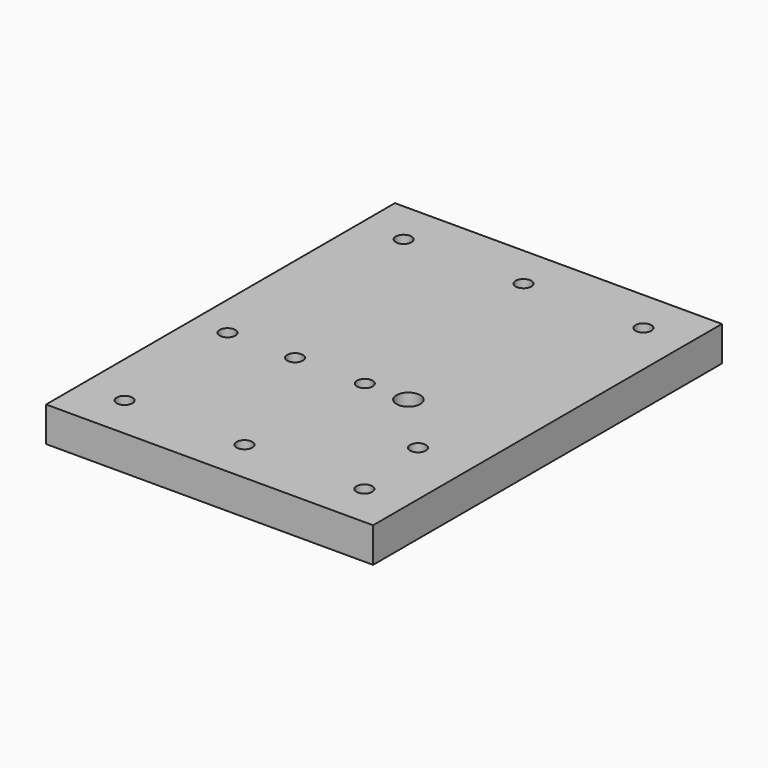
from build123d import *

# Parameters (mm, degrees)
BOX_W         = 75
BOX_H         = 100
BOX_DEPTH     = 8
SKETCH_R      = 1.8
HOLE_DEPTH    = 8.001
SKETCH001_R   = 1.8
HOLE001_DEPTH = 25
SKETCH003_R   = 2.75
HOLE002_DEPTH = 8.001


with BuildPart() as part:
    # Box → Box (join)
    with BuildSketch(Plane.XY):
        with Locations((37.5, 50)):
            Rectangle(BOX_W, BOX_H)
    extrude(amount=BOX_DEPTH)

    # Sketch (on Face5 of Box) → Hole (cut, through all)
    with BuildSketch(Plane(origin=(0, 0, 0), x_dir=(1, 0, 0), z_dir=(0, 0, -1))):
        with Locations((10, -10)):
            Circle(SKETCH_R)
        with Locations((37.5, -10)):
            Circle(SKETCH_R)
        with Locations((65, -10)):
            Circle(SKETCH_R)
        with Locations((10, -90)):
            Circle(SKETCH_R)
        with Locations((37.5, -90)):
            Circle(SKETCH_R)
        with Locations((65, -90)):
            Circle(SKETCH_R)
    extrude(amount=-HOLE_DEPTH, mode=Mode.SUBTRACT)

    # Sketch001 (on Face5 of Hole) → Hole001 (cut)
    with BuildSketch(Plane(origin=(0, 0, 0), x_dir=(1, 0, 0), z_dir=(0, 0, -1))):
        with Locations((39.5, -42)):
            Circle(SKETCH001_R)
        with Locations((23.5, -42)):
            Circle(SKETCH001_R)
        with Locations((8, -42)):
            Circle(SKETCH001_R)
        with Locations((62.5, -28.5)):
            Circle(SKETCH001_R)
    extrude(amount=-HOLE001_DEPTH, mode=Mode.SUBTRACT)

    # Sketch003 (on Face5 of Hole001) → Hole002 (cut, through all)
    with BuildSketch(Plane(origin=(0, 0, 0), x_dir=(1, 0, 0), z_dir=(0, 0, -1))):
        with Locations((49.5, -42)):
            Circle(SKETCH003_R)
    extrude(amount=-HOLE002_DEPTH, mode=Mode.SUBTRACT)


solid = part.part
